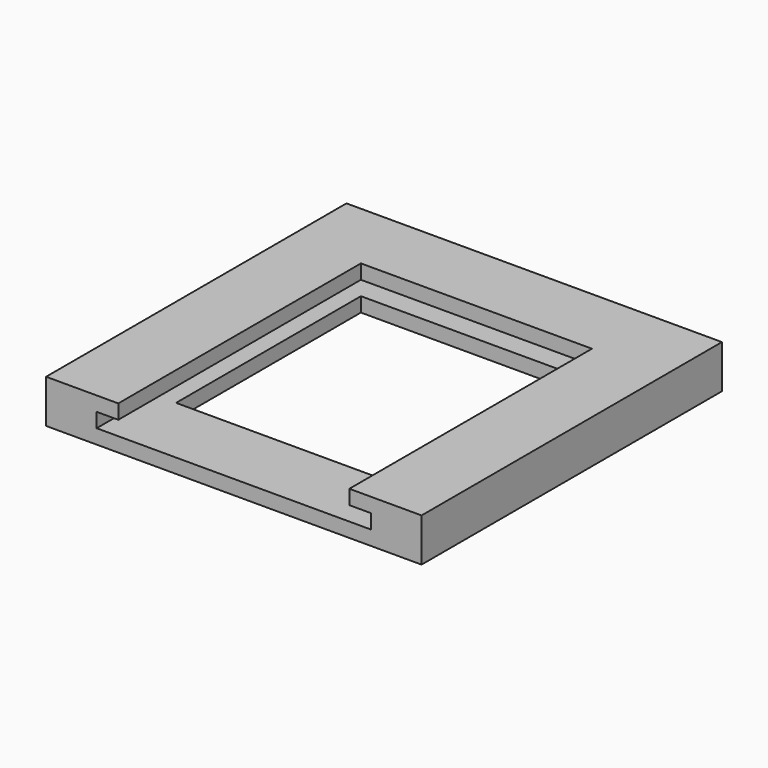
from build123d import *

# Parameters (mm, degrees)
F0_W     = 26
F0_H     = 26
F0_W_2   = 16
F0_H_2   = 16
F1_DEPTH = 3
F3_DEPTH = 22.5
F2_W     = 16
F2_H     = 1
F4_DEPTH = 5
F5_W     = 6
F5_H     = 1
F6_DEPTH = 3.5


with BuildPart() as f1:
    # F0 (on Top) → F1 (new body)
    with BuildSketch(Plane.XY):
        Rectangle(F0_W, F0_H)
        Rectangle(F0_W_2, F0_H_2, mode=Mode.SUBTRACT)
    extrude(amount=F1_DEPTH)

    # F2 (on face) → F3 (cut)
    with BuildSketch(Plane.XZ.offset(13)):
        Polygon((-8, 2), (-9.5, 2), (-9.5, 1), (9.5, 1), (9.5, 2), (8, 2), align=None)
    extrude(amount=-F3_DEPTH, mode=Mode.SUBTRACT)

    # F2 (on face) → F4 (cut, through all)
    with BuildSketch(Plane.XZ.offset(13)):
        with Locations((0, 2.5)):
            Rectangle(F2_W, F2_H)
    extrude(amount=-F4_DEPTH, mode=Mode.SUBTRACT)

    # F5 (on face) → F6 (cut, through all)
    with BuildSketch(Plane(origin=(0, 13, 0), x_dir=(-1, 0, 0), z_dir=(0, 1, 0))):
        with Locations((0, 1.5)):
            Rectangle(F5_W, F5_H)
    extrude(amount=-F6_DEPTH, mode=Mode.SUBTRACT)


solid = f1.part
